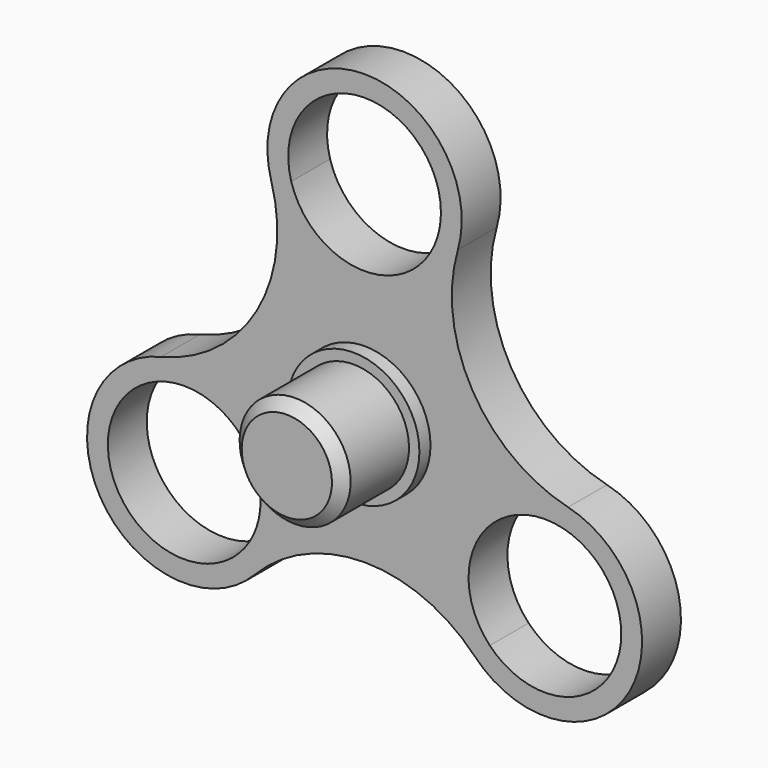
from build123d import *

# Parameters (mm, degrees)
F0_R     = 11
F1_DEPTH = 7
F2_SCALE = 0.5
F5_R     = 4.75
F5_R_2   = 4
F6_DEPTH = 1
F7_SIZE  = 0.75


with BuildPart() as f1:
    # F0 (on Front) → F1 (new body)
    with BuildSketch(Plane.XZ):
        with BuildLine():
            ThreePointArc((29.3216524239, -1.4044694133), (15.5190640284, 8.9599357944), (13.4445200212, 26.0955305867))
            ThreePointArc((13.4445200212, 26.0955305867), (0, 44), (-13.4445200212, 26.0955305867))
            ThreePointArc((-13.4445200212, 26.0955305867), (-15.5190640284, 8.9599357944), (-29.3216524239, -1.4044694133))
            ThreePointArc((-29.3216524239, -1.4044694133), (-38.1051177665, -22), (-15.8771324027, -24.6910611734))
            ThreePointArc((-15.8771324027, -24.6910611734), (0, -17.9198715888), (15.8771324027, -24.6910611734))
            ThreePointArc((15.8771324027, -24.6910611734), (38.1051177665, -22), (29.3216524239, -1.4044694133))
        make_face()
        with BuildLine():
            ThreePointArc((11, 30), (10.8903412687, 28.4506559287), (10.5635514452, 26.9322026038))
            ThreePointArc((10.5635514452, 26.9322026038), (12.9209878171, 7.4599357944), (28.6057473574, -4.3177973962))
            ThreePointArc((28.6057473574, -4.3177973962), (34.6374022725, -8.2130580407), (36.9807621135, -15))
            ThreePointArc((36.9807621135, -15), (30.084161423, -25.2059842302), (18.0421959122, -22.6144052077))
            ThreePointArc((18.0421959122, -22.6144052077), (0, -14.9198715888), (-18.0421959122, -22.6144052077))
            ThreePointArc((-18.0421959122, -22.6144052077), (-35.5070415552, -20.5), (-28.6057473574, -4.3177973962))
            ThreePointArc((-28.6057473574, -4.3177973962), (-12.9209878171, 7.4599357944), (-10.5635514452, 26.9322026038))
            ThreePointArc((-10.5635514452, 26.9322026038), (-1.5493440713, 40.8903412687), (11, 30))
        make_face(mode=Mode.SUBTRACT)
        with BuildLine():
            ThreePointArc((28.6057473574, -4.3177973962), (12.9209878171, 7.4599357944), (10.5635514452, 26.9322026038))
            ThreePointArc((10.5635514452, 26.9322026038), (0, 19), (-10.5635514452, 26.9322026038))
            ThreePointArc((-10.5635514452, 26.9322026038), (-12.9209878171, 7.4599357944), (-28.6057473574, -4.3177973962))
            ThreePointArc((-28.6057473574, -4.3177973962), (-19.1938201542, -6.3433598411), (-14.9807621135, -15))
            ThreePointArc((-14.9807621135, -15), (-15.7747778833, -19.1033993094), (-18.0421959122, -22.6144052077))
            ThreePointArc((-18.0421959122, -22.6144052077), (0, -14.9198715888), (18.0421959122, -22.6144052077))
            ThreePointArc((18.0421959122, -22.6144052077), (16.4544826719, -9.5), (28.6057473574, -4.3177973962))
        make_face()
        Circle(F0_R, mode=Mode.SUBTRACT)
    extrude(amount=F1_DEPTH)


with BuildPart() as f1_1:
    # F2: moved
    add(f1.part.scale(F2_SCALE))

    # F3 (on Right) → F4 (revolve)
    with BuildSketch(Plane.YZ):
        Polygon((-10.5, -4), (-3.5, -4), (-3.5, -0.7022347066), (-3.5, 0), (-10.5, 0), align=None)
        Polygon((-3.5, -4), (-3.5, -5.5), (0, -5.5), (0, 0), (-3.5, 0), (-3.5, -0.7022347066), align=None)
    revolve(axis=Axis((0, -7, 0), (0, -1, 0)))

    # F5 (on face) → F6 (join)
    with BuildSketch(Plane.XZ.offset(3.5)):
        Circle(F5_R)
        Circle(F5_R_2, mode=Mode.SUBTRACT)
    extrude(amount=F6_DEPTH)

    # F7
    f7_edges = [f1_1.edges().sort_by_distance(p)[0] for p in [
        (0, -10.5, 4),
    ]]
    chamfer(f7_edges, length=F7_SIZE)


solid = f1_1.part
